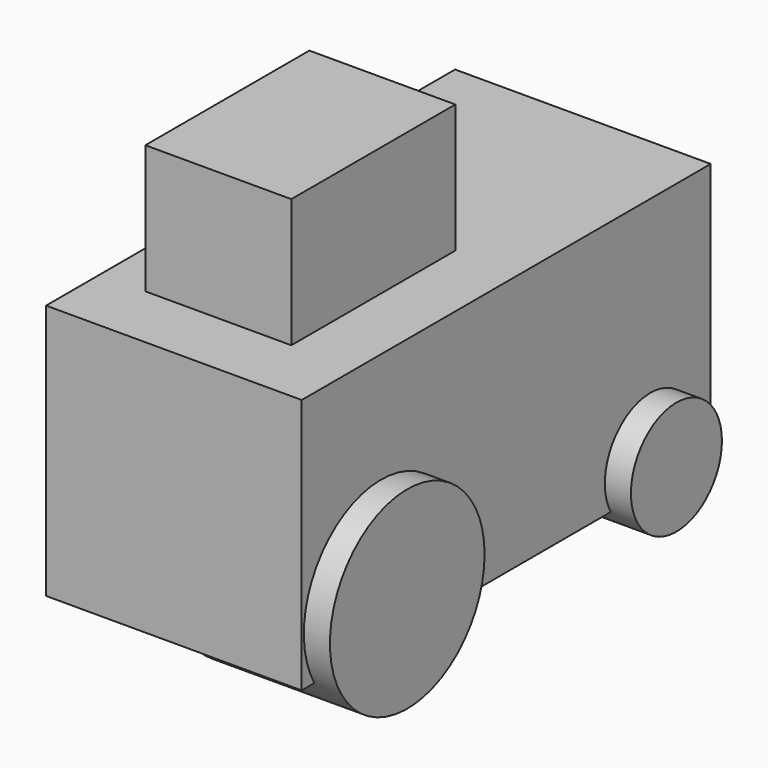
from build123d import *

# Parameters (mm, degrees)
F0_W     = 2540
F0_H     = 2540.000068
F1_DEPTH = 5080
F2_W     = 1450.464129
F2_H     = 2036.821842
F3_DEPTH = 2540
F4_R     = 564.941606
F4_R_2   = 960.277285
F5_DEPTH = 1524
F6_R     = 497.622563
F6_R_2   = 795.564444
F7_DEPTH = 1524


with BuildPart() as f1:
    # F0 (on Front) → F1 (new body)
    with BuildSketch(Plane.XZ):
        with Locations((-5.380282, -8.262568)):
            Rectangle(F0_W, F0_H)
    extrude(amount=F1_DEPTH)

    # F2 (on Top) → F3 (join)
    with BuildSketch(Plane.XY):
        with Locations((-97.963095, -3393.819094)):
            Rectangle(F2_W, F2_H)
    extrude(amount=F3_DEPTH)

    # F4 (on Right) → F5 (join)
    with BuildSketch(Plane.YZ):
        with Locations((-750.065506, -1000.956178)):
            Circle(F4_R)
        with Locations((-4093.334198, -795.21656)):
            Circle(F4_R_2)
    extrude(amount=F5_DEPTH)

    # F6 (on Right) → F7 (join)
    with BuildSketch(Plane.YZ):
        with Locations((-653.753221, -1006.319046)):
            Circle(F6_R)
        with Locations((-3966.402769, -965.168178)):
            Circle(F6_R_2)
    extrude(amount=-F7_DEPTH)


solid = f1.part
